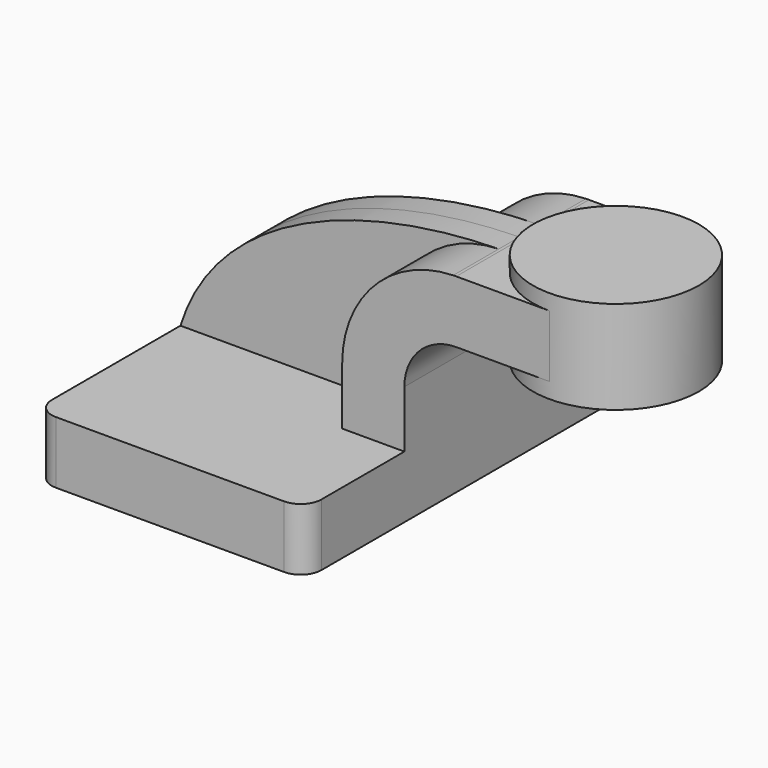
from build123d import *

# Parameters (mm, degrees)
F1_DEPTH = 63.5
F0_W     = 25.4
F0_H     = 19.05
F2_DEPTH = 25.4
F3_DEPTH = 7.9375
F5_R     = 6.35


with BuildPart() as f1:
    # F0 (on Front) → F1 (new body, symmetric)
    with BuildSketch(Plane.XZ):
        Polygon((-41.275, -9.525), (41.275, -9.525), (41.275, 9.525), (22.225, 9.525), (-41.275, 9.525), align=None)
    extrude(amount=F1_DEPTH, both=True)



with BuildPart() as f2:
    # F0 (on Front) → F2 (new body, symmetric)
    with BuildSketch(Plane.XZ):
        with BuildLine():
            Line((22.225, 9.525), (41.275, 9.525))
            Line((41.275, 9.525), (41.275, 26.9875))
            ThreePointArc((41.275, 26.9875), (45.9246798487, 38.2128201513), (57.15, 42.8625))
            Line((57.15, 42.8625), (60.325, 42.8625))
            Line((60.325, 42.8625), (60.325, 61.9125))
            Line((60.325, 61.9125), (57.15, 61.9125))
            add(Edge.make_bspline(
                [(56.2230819512, 61.9001975172), (56.5320743429, 61.9050863843), (56.8410510368, 61.9091866589), (57.15, 61.9125)],
                knots=[110.7034248849, 110.7034248849, 110.7034248849, 110.7034248849, 111.4985685166, 111.4985685166, 111.4985685166, 111.4985685166], degree=3))
            ThreePointArc((56.2230819512, 61.9001975172), (32.1287266725, 51.3532855624), (22.225, 26.9875))
            Line((22.225, 26.9875), (22.225, 9.525))
        make_face()
        with Locations((73.025, 52.3875)):
            Rectangle(F0_W, F0_H)
    extrude(amount=F2_DEPTH, both=True)


with BuildPart() as f1_1:
    add(f1.part)

    add(f2.part)  # F3 merges F2
    # F0 (on Front) → F3 (join, symmetric)
    with BuildSketch(Plane.XZ):
        with BuildLine():
            add(Edge.make_bspline(
                [(-41.275, 9.525), (-30.1197790598, 45.2532624962), (13.2037900148, 61.219547757), (56.2230819512, 61.9001975172)],
                knots=[0, 0, 0, 0, 110.7034248849, 110.7034248849, 110.7034248849, 110.7034248849], degree=3))
            Line((-41.275, 9.525), (22.225, 9.525))
            Line((22.225, 9.525), (22.225, 26.9875))
            ThreePointArc((22.225, 26.9875), (32.1287266725, 51.3532855624), (56.2230819512, 61.9001975172))
        make_face()
    extrude(amount=F3_DEPTH, both=True)

    # F0 (on Front) → F4 (revolve)
    with BuildSketch(Plane.XZ):
        Polygon((85.725, 61.9125), (85.725, 42.8625), (85.725, 38.1), (111.125, 38.1), (111.125, 66.675), (85.725, 66.675), align=None)
    revolve(axis=Axis((85.725, 0, 52.3875), (0, 0, 1)))

    # F5
    f5_edges = [f1_1.edges().sort_by_distance(p)[0] for p in [
        (-41.275, -63.5, 0),
        (41.275, -63.5, 0),
        (41.275, 63.5, 0),
        (-41.275, 63.5, 0),
    ]]
    fillet(f5_edges, radius=F5_R)


solid = f1_1.part
